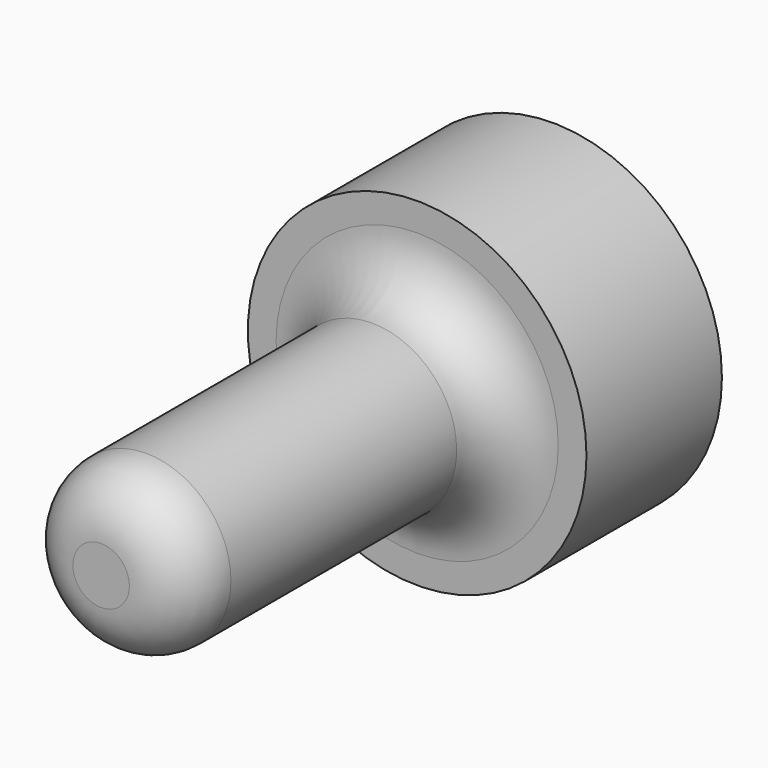
from build123d import *

# Parameters (mm, degrees)
SKETCH007_R  = 3
PAD003_DEPTH = 3
SKETCH008_R  = 1.5
PAD004_DEPTH = 7
FILLET_R     = 1
FILLET001_R  = 1


with BuildPart() as part:
    # Sketch007 → Pad003 (new body)
    with BuildSketch(Plane.XZ):
        with Locations((-30.848434, 32.311108)):
            Circle(SKETCH007_R)
    extrude(amount=PAD003_DEPTH)

    # Sketch008 → Pad004 (new body)
    with BuildSketch(Plane.XZ.offset(3)):
        with Locations((-30.848434, 32.311108)):
            Circle(SKETCH008_R)
    extrude(amount=PAD004_DEPTH)

    # Fillet
    fillet_edges = [part.edges().sort_by_distance(p)[0] for p in [
        (-32.348434, -3, 32.311108),
    ]]
    fillet(fillet_edges, radius=FILLET_R)

    # Fillet001
    fillet001_edges = [part.edges().sort_by_distance(p)[0] for p in [
        (-32.348434, -10, 32.311108),
    ]]
    fillet(fillet001_edges, radius=FILLET001_R)


solid = part.part
